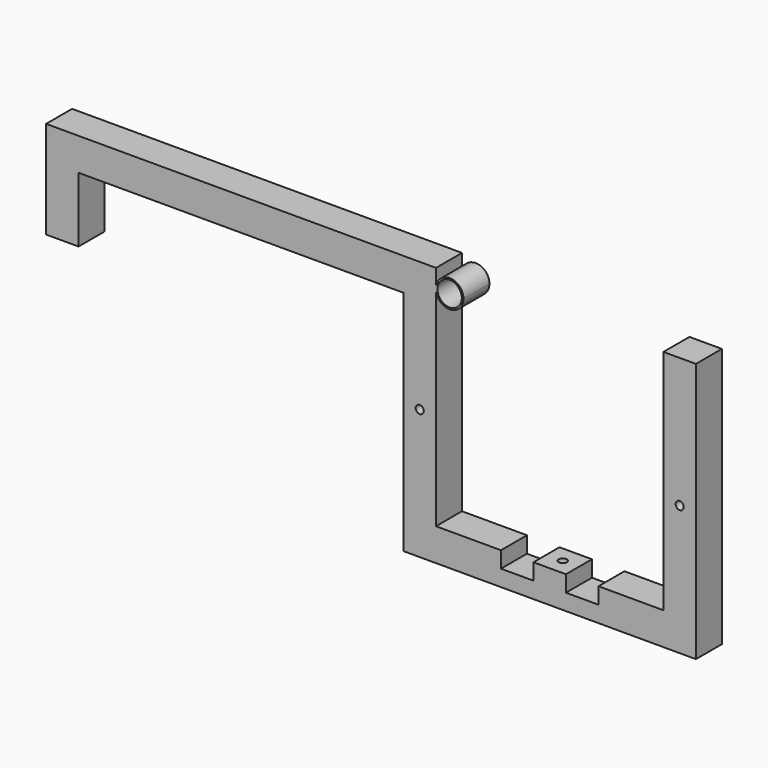
from build123d import *

# Parameters (mm, degrees)
F0_R     = 3.175
F0_R_2   = 9.525
F0_W     = 254
F0_H     = 25.4
F1_DEPTH = 25.4
F2_R     = 3.175
F3_DEPTH = 25.4


with BuildPart() as f1:
    # F0 (on Front) → F1 (new body)
    with BuildSketch(Plane.XZ):
        with BuildLine():
            Line((127, 12.7), (127, -12.7))
            Line((127, -12.7), (127, -190.5))
            Line((127, -190.5), (152.4, -190.5))
            Line((152.4, -190.5), (152.4, -165.1))
            Line((152.4, -165.1), (152.4, -3.185528))
            ThreePointArc((152.4, -3.185528), (152.28185, -1.592764), (152.4, 0))
            Line((152.4, 0), (152.4, 12.7))
            Line((152.4, 12.7), (127, 12.7))
        make_face()
        with Locations((139.7, -88.9)):
            Circle(F0_R, mode=Mode.SUBTRACT)
        with BuildLine():
            ThreePointArc((173.87185, -1.592764), (163.87542, 9.172658), (152.4, 0))
            Line((152.4, 0), (152.4, -3.185528))
            ThreePointArc((152.4, -3.185528), (163.87542, -12.358186), (173.87185, -1.592764))
        make_face()
        with Locations((163.07685, -1.592764)):
            Circle(F0_R_2, mode=Mode.SUBTRACT)
        Polygon((-127, -63.5), (-127, -12.7), (-127, 12.7), (-152.4, 12.7), (-152.4, -63.5), align=None)
        Rectangle(F0_W, F0_H)
        with BuildLine():
            Line((152.4, -3.185528), (152.4, 0))
            ThreePointArc((152.4, 0), (152.28185, -1.592764), (152.4, -3.185528))
        make_face()
        Polygon((152.4, -165.1), (152.4, -190.5), (330.2, -190.5), (330.2, -165.1), (279.4, -165.1), (279.4, -177.8), (254, -177.8), (254, -165.1), (228.6, -165.1), (228.6, -177.8), (203.2, -177.8), (203.2, -165.1), align=None)
        Polygon((330.2, -165.1), (330.2, -190.5), (355.6, -190.5), (355.6, 12.7), (330.2, 12.7), align=None)
        with Locations((342.9, -88.9)):
            Circle(F0_R, mode=Mode.SUBTRACT)
    extrude(amount=F1_DEPTH)

    # F2 (on face) → F3 (cut)
    with BuildSketch(Plane.XY.offset(-165.1)):
        with Locations((241.3, -12.7)):
            Circle(F2_R)
    extrude(amount=-F3_DEPTH, mode=Mode.SUBTRACT)


solid = f1.part
